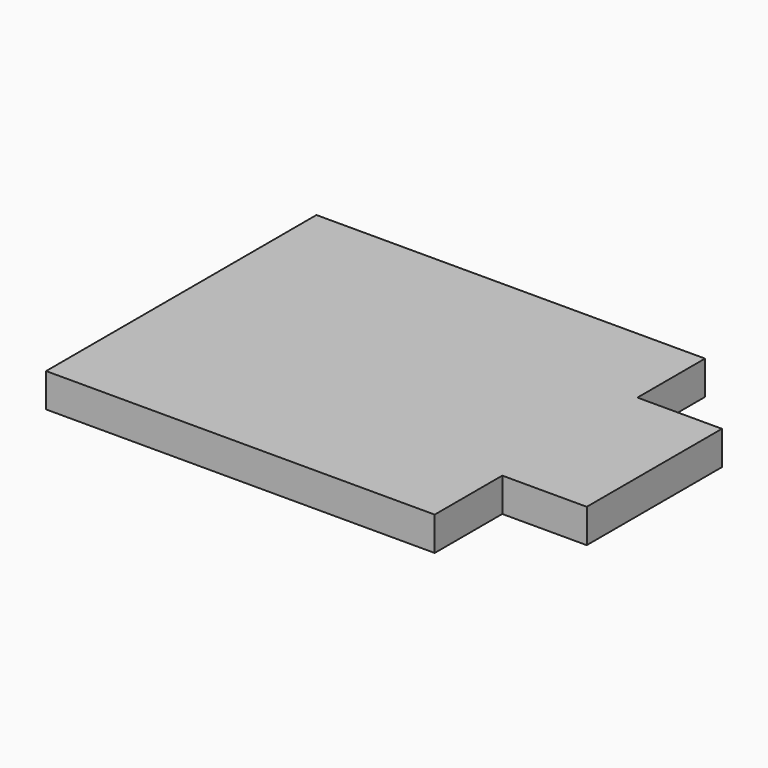
from build123d import *

# Parameters (mm, degrees)
F1_DEPTH = 50.8
F2_W     = 254
F2_H     = 50.8
F3_DEPTH = 127


with BuildPart() as f1:
    # F0 (on Top) → F1 (new body)
    with BuildSketch(Plane.XY):
        Polygon((-330.2, 0), (0, 0), (254, 0), (254, 508), (0, 508), (-330.2, 508), align=None)
    extrude(amount=F1_DEPTH)

    # F2 (on face) → F3 (join)
    with BuildSketch(Plane.YZ.offset(254)):
        with Locations((254, 25.4)):
            Rectangle(F2_W, F2_H)
    extrude(amount=F3_DEPTH)


solid = f1.part
